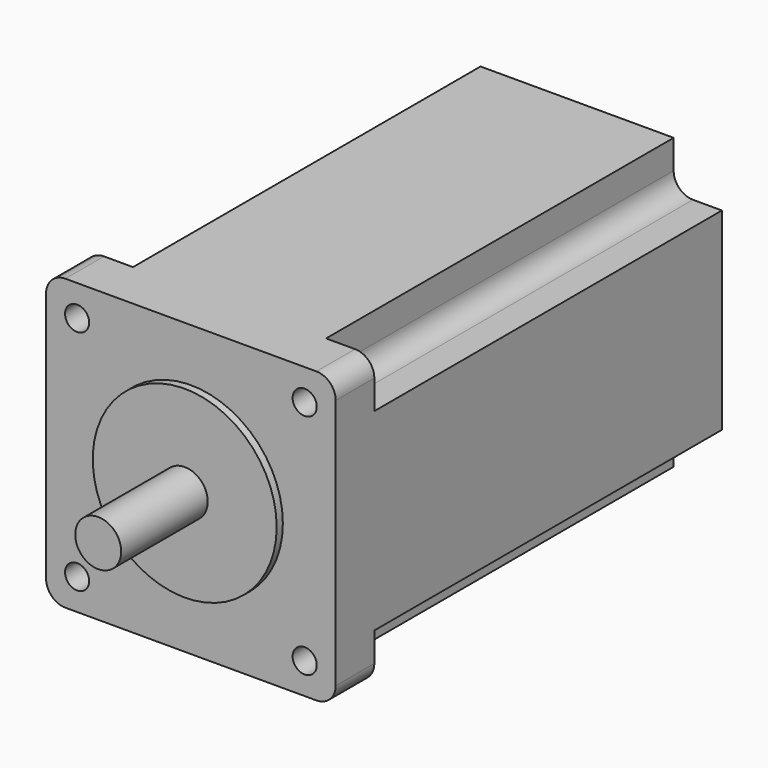
from build123d import *

# Parameters (mm, degrees)
F1_DEPTH = 10
F3_DEPTH = 1.6
F5_DEPTH = 24
F7_DEPTH = 90
F9_DEPTH = 90
F10_D    = 5


with BuildPart() as f1:
    # F0 (on Front) → F1 (new body)
    with BuildSketch(Plane.XZ):
        with BuildLine():
            ThreePointArc((0, 4), (1.1715728753, 1.1715728753), (4, 0))
            Line((4, 0), (56, 0))
            ThreePointArc((56, 0), (58.8284271247, 1.1715728753), (60, 4))
            Line((60, 4), (60, 56))
            ThreePointArc((60, 56), (58.8284271247, 58.8284271247), (56, 60))
            Line((56, 60), (4, 60))
            ThreePointArc((4, 60), (1.1715728753, 58.8284271247), (0, 56))
            Line((0, 56), (0, 4))
        make_face()
    extrude(amount=-F1_DEPTH)

    # F2 (on face) → F3 (join)
    with BuildSketch(Plane.XZ):
        with BuildLine():
            ThreePointArc((49.05, 30), (43.4703841816, 43.4703841816), (30, 49.05))
            Line((30, 49.05), (30, 10.95))
            ThreePointArc((30, 10.95), (43.4703841816, 16.5296158184), (49.05, 30))
        make_face()
        with BuildLine():
            Line((30, 10.95), (30, 49.05))
            ThreePointArc((30, 49.05), (10.95, 30), (30, 10.95))
        make_face()
    extrude(amount=F3_DEPTH)

    # F4 (on face) → F5 (join)
    with BuildSketch(Plane.XZ):
        with BuildLine():
            ThreePointArc((34.7625, 30), (33.3675960454, 33.3675960454), (30, 34.7625))
            Line((30, 34.7625), (30, 25.2375))
            ThreePointArc((30, 25.2375), (33.3675960454, 26.6324039546), (34.7625, 30))
        make_face()
        with BuildLine():
            Line((30, 25.2375), (30, 34.7625))
            ThreePointArc((30, 34.7625), (25.2375, 30), (30, 25.2375))
        make_face()
    extrude(amount=F5_DEPTH)

    # F7 (add): a face of the model
    f7_faces = [f1.faces().sort_by_distance(p)[0] for p in [
        (30, 10, 30),
    ]]
    extrude(f7_faces, amount=F7_DEPTH)

    # F8 (on face) → F9 (cut)
    with BuildSketch(Plane(origin=(0, 100, 0), x_dir=(-1, 0, 0), z_dir=(0, 1, 0))):
        with BuildLine():
            Line((-60, 50), (-54, 50))
            ThreePointArc((-54, 50), (-51.1715728753, 51.1715728753), (-50, 54))
            Line((-50, 54), (-50, 60))
            Line((-50, 60), (-60, 60))
            Line((-60, 60), (-60, 50))
        make_face()
        with BuildLine():
            ThreePointArc((-10, 54), (-8.8284271247, 51.1715728753), (-6, 50))
            Line((-6, 50), (0, 50))
            Line((0, 50), (0, 60))
            Line((0, 60), (-10, 60))
            Line((-10, 60), (-10, 54))
        make_face()
        with BuildLine():
            ThreePointArc((-50, 6), (-51.1715728753, 8.8284271247), (-54, 10))
            Line((-54, 10), (-60, 10))
            Line((-60, 10), (-60, 0))
            Line((-60, 0), (-50, 0))
            Line((-50, 0), (-50, 6))
        make_face()
        with BuildLine():
            Line((0, 10), (-6, 10))
            ThreePointArc((-6, 10), (-8.8284271247, 8.8284271247), (-10, 6))
            Line((-10, 6), (-10, 0))
            Line((-10, 0), (0, 0))
            Line((0, 0), (0, 10))
        make_face()
    extrude(amount=-F9_DEPTH, mode=Mode.SUBTRACT)

    # F10 (through all)
    with Locations(Plane.XZ):
        with Locations((6.43, 53.57), (53.57, 53.57), (53.57, 6.43), (6.43, 6.43)):
            Hole(F10_D / 2)


solid = f1.part
